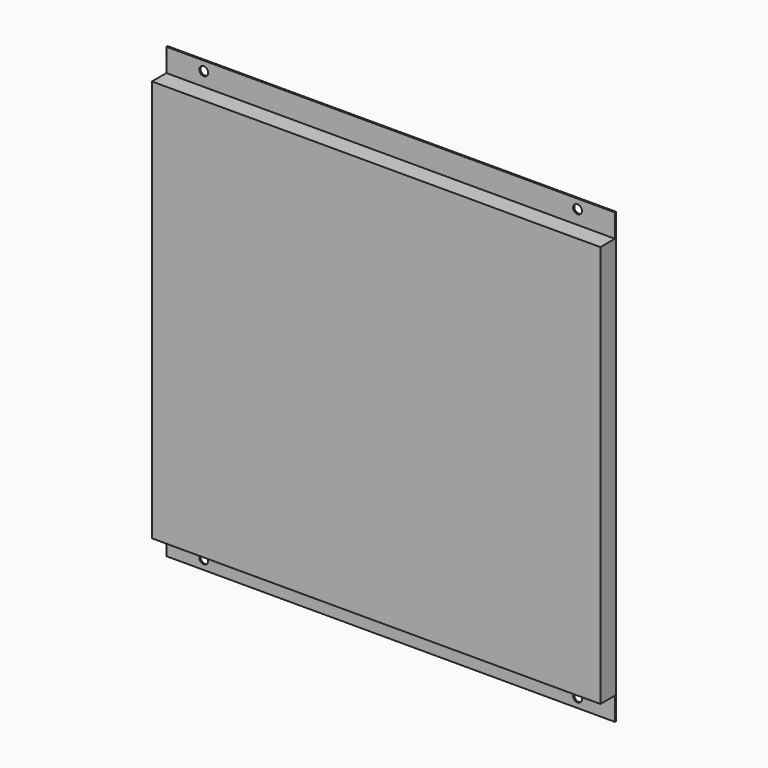
from build123d import *

# Parameters (mm, degrees)
BOX001_W      = 460
BOX001_H      = 18.5
BOX001_DEPTH  = 24
BOX_W         = 460
BOX_H         = 18.5
BOX_DEPTH     = 24
SKETCH_W      = 457.2
SKETCH_H      = 457.2
SKETCH_R      = 4.5
EXTRUDE_DEPTH = 20


with BuildPart() as cube001:
    # Box001 → Box001 (new body)
    with BuildSketch(Plane(origin=(-229, 0, 205), x_dir=(1, 0, 0), z_dir=(0, 0, 1))):
        with Locations((230, 9.25)):
            Rectangle(BOX001_W, BOX001_H)
    extrude(amount=BOX001_DEPTH)


with BuildPart() as cut:
    # Box → Box (new body)
    with BuildSketch(Plane(origin=(-229, 0, -229), x_dir=(1, 0, 0), z_dir=(0, 0, 1))):
        with Locations((230, 9.25)):
            Rectangle(BOX_W, BOX_H)
    extrude(amount=BOX_DEPTH)

    # Fusion: union Cube001
    add(cube001.part)


with BuildPart() as cut_body:
    # Sketch → Extrude (new body)
    with BuildSketch(Plane.XZ):
        Rectangle(SKETCH_W, SKETCH_H)
        with Locations((-190.5, -219.075)):
            Circle(SKETCH_R, mode=Mode.SUBTRACT)
        with Locations((-190.5, 219.075)):
            Circle(SKETCH_R, mode=Mode.SUBTRACT)
        with Locations((190.5, 219.075)):
            Circle(SKETCH_R, mode=Mode.SUBTRACT)
        with Locations((190.5, -219.075)):
            Circle(SKETCH_R, mode=Mode.SUBTRACT)
    extrude(amount=-EXTRUDE_DEPTH)

    # Cut: cut cut
    add(cut.part, mode=Mode.SUBTRACT)


solid = cut_body.part
